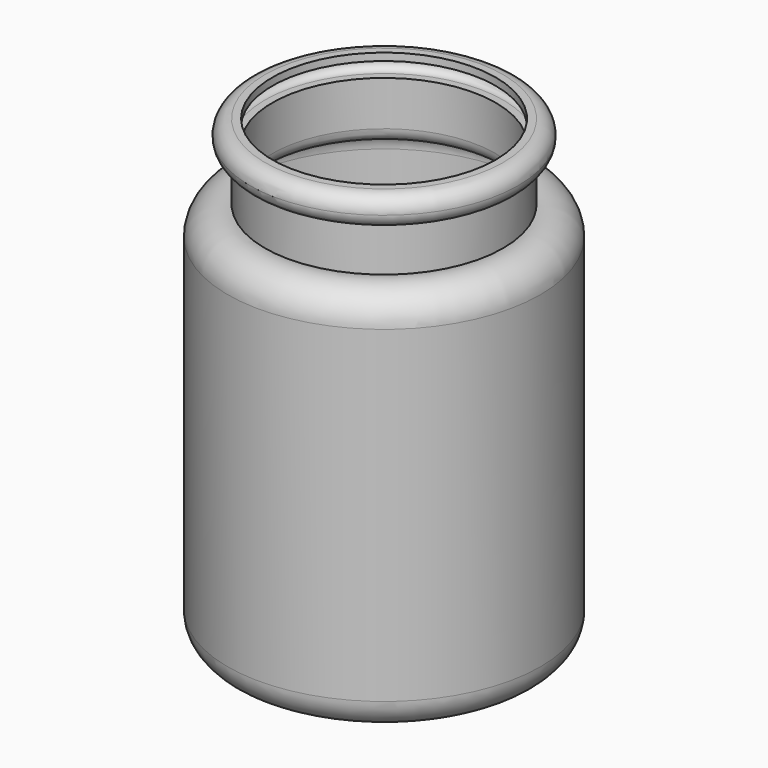
from build123d import *


with BuildPart() as f1:
    # F0 (on Front) → F1 (revolve)
    with BuildSketch(Plane.XZ):
        with BuildLine():
            Line((12.7, 0), (0, 0))
            Line((0, 0), (0, -1.27))
            Line((0, -1.27), (12.276667, -1.27))
            Line((12.276667, -1.27), (17.356667, -5.08))
            Line((17.356667, -5.08), (21.59, -5.08))
            ThreePointArc((21.59, -5.08), (25.182102, -3.592102), (26.67, 0))
            Line((26.67, 0), (26.67, 55.88))
            ThreePointArc((26.67, 55.88), (24.700852, 59.896093), (20.32, 60.798689))
            Line((20.32, 60.798689), (20.32, 68.58))
            ThreePointArc((20.32, 68.58), (22.081241, 69.2898), (22.858128, 71.022495))
            ThreePointArc((22.858128, 71.022495), (22.1502, 72.881241), (20.32, 73.66))
            Line((20.32, 73.66), (19.05, 73.66))
            Line((19.05, 73.66), (19.05, 72.39))
            Line((19.05, 72.39), (20.32, 72.39))
            ThreePointArc((20.32, 72.39), (21.218026, 72.018026), (21.59, 71.12))
            ThreePointArc((21.59, 71.12), (21.218026, 70.221974), (20.32, 69.85))
            Line((20.32, 69.85), (19.05, 69.85))
            Line((19.05, 69.85), (19.05, 62.23))
            ThreePointArc((19.05, 62.23), (19.793949, 60.433949), (21.59, 59.69))
            ThreePointArc((21.59, 59.69), (24.284077, 58.574077), (25.4, 55.88))
            Line((25.4, 55.88), (25.4, 0))
            ThreePointArc((25.4, 0), (24.284077, -2.694077), (21.59, -3.81))
            Line((21.59, -3.81), (17.78, -3.81))
            Line((17.78, -3.81), (12.7, 0))
        make_face()
    revolve(axis=Axis((0, 0, -27.950629), (0, 0, -1)))


solid = f1.part
